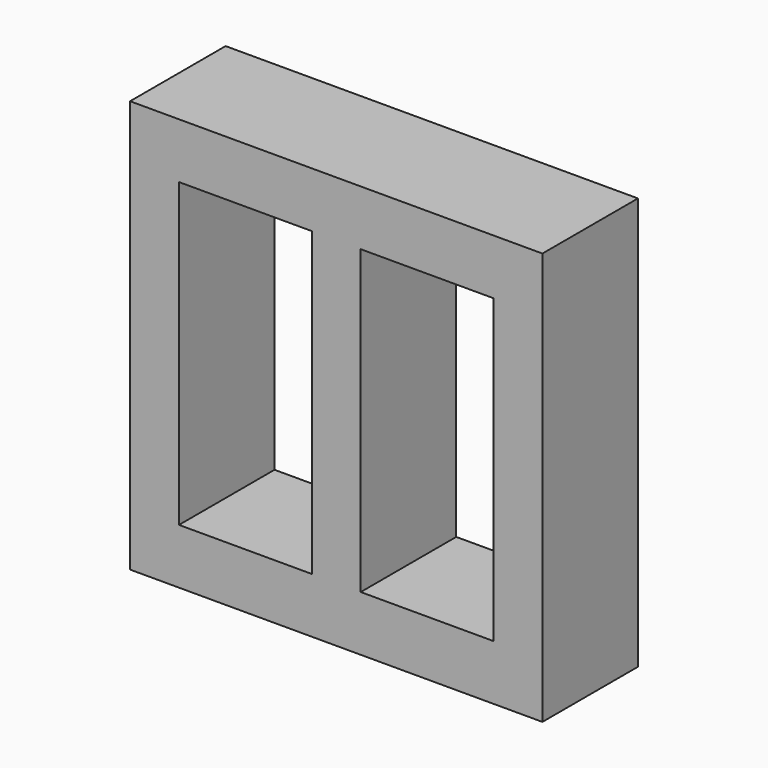
from build123d import *

# Parameters (mm, degrees)
F0_W     = 31.927392
F0_H     = 31.927392
F0_W_2   = 10.280441
F0_H_2   = 23.370836
F0_W_3   = 10.280442
F1_DEPTH = 9.2456


with BuildPart() as f1:
    # F0 (on Front) → F1 (new body)
    with BuildSketch(Plane.XZ):
        with Locations((15.963696, 15.963696)):
            Rectangle(F0_W, F0_H)
        with Locations((8.929057, 15.963696)):
            Rectangle(F0_W_2, F0_H_2, mode=Mode.SUBTRACT)
        with Locations((22.998335, 15.963696)):
            Rectangle(F0_W_3, F0_H_2, mode=Mode.SUBTRACT)
    extrude(amount=F1_DEPTH)


solid = f1.part
